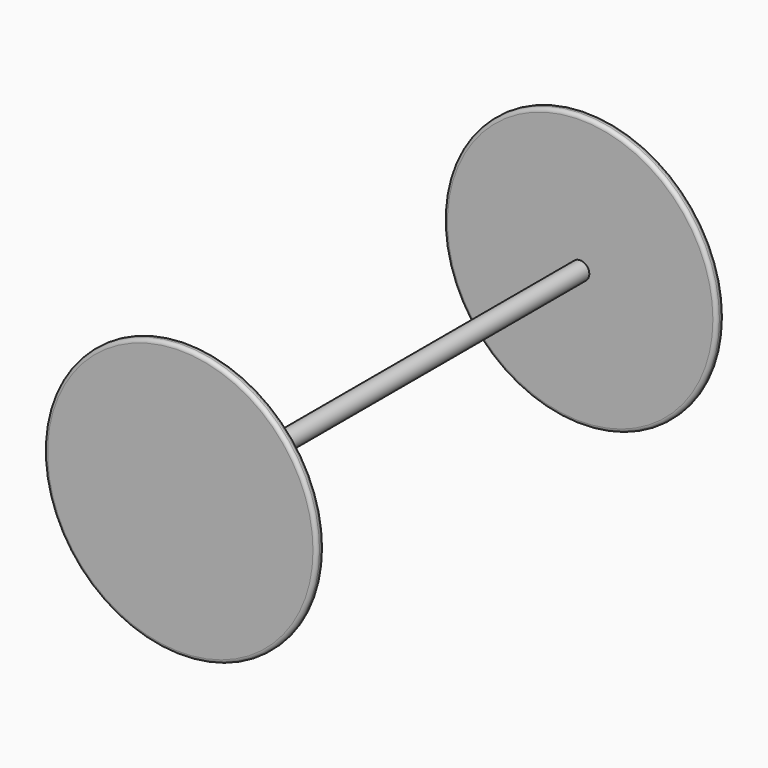
from build123d import *

# Parameters (mm, degrees)
F0_R     = 190.5
F1_DEPTH = 12.7
F2_R     = 12.7
F2_R_2   = 1.8096717608
F3_DEPTH = 685.8
F4_R     = 190.5
F5_DEPTH = 12.7
F6_R     = 5.08


with BuildPart() as f1:
    # F0 (on Front) → F1 (new body)
    with BuildSketch(Plane.XZ):
        with Locations((-12.7692446113, 10.287723504)):
            Circle(F0_R)
    extrude(amount=F1_DEPTH)

    # F2 (on face) → F3 (join)
    with BuildSketch(Plane.XZ.offset(12.7)):
        with Locations((-12.7692446113, 10.287723504)):
            Circle(F2_R)
        with Locations((-12.7692446113, 10.287723504)):
            Circle(F2_R_2, mode=Mode.SUBTRACT)
    extrude(amount=F3_DEPTH)

    # F4 (on face) → F5 (join)
    with BuildSketch(Plane.XZ.offset(698.5)):
        with Locations((-12.7692446113, 10.287723504)):
            Circle(F4_R)
    extrude(amount=F5_DEPTH)

    # F6
    f6_edges = [f1.edges().sort_by_distance(p)[0] for p in [
        (-203.269245, -711.2, 10.287724),
        (-203.269245, -698.5, 10.287724),
        (-203.269245, -12.7, 10.287724),
        (-203.269245, 0, 10.287724),
    ]]
    fillet(f6_edges, radius=F6_R)


solid = f1.part
